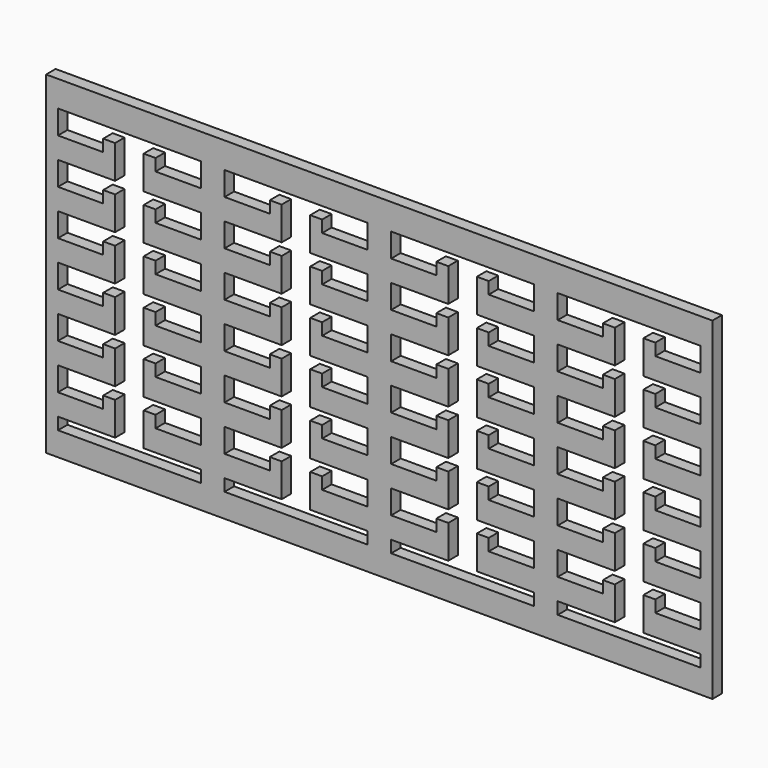
from build123d import *

# Parameters (mm, degrees)
F0_W     = 355.6
F0_H     = 177.8
F1_DEPTH = 6.35


with BuildPart() as f1:
    # F0 (on Front) → F1 (new body)
    with BuildSketch(Plane.XZ):
        with Locations((-193.209771, -3.846272)):
            Rectangle(F0_W, F0_H)
        Polygon((-364.659771, -62.202772), (-364.659771, -49.502772), (-334.179771, -49.502772), (-334.179771, -31.722772), (-340.529771, -31.722772), (-340.529771, -38.072772), (-364.659771, -38.072772), (-364.659771, -25.372772), (-334.179771, -25.372772), (-334.179771, -7.592772), (-340.529771, -7.592772), (-340.529771, -13.942772), (-364.659771, -13.942772), (-364.659771, -1.242772), (-334.179771, -1.242772), (-334.179771, 16.537228), (-340.529771, 16.537228), (-340.529771, 10.187228), (-364.659771, 10.187228), (-364.659771, 22.887228), (-334.179771, 22.887228), (-334.179771, 40.667228), (-340.529771, 40.667228), (-340.529771, 34.317228), (-364.659771, 34.317228), (-364.659771, 47.017228), (-334.179771, 47.017228), (-334.179771, 64.797228), (-340.529771, 64.797228), (-340.529771, 58.447228), (-364.659771, 58.447228), (-364.659771, 71.147228), (-288.459771, 71.147228), (-288.459771, 58.447228), (-312.589771, 58.447228), (-312.589771, 64.797228), (-318.939771, 64.797228), (-318.939771, 47.017228), (-288.459771, 47.017228), (-288.459771, 34.317228), (-312.589771, 34.317228), (-312.589771, 40.667228), (-318.939771, 40.667228), (-318.939771, 22.887228), (-288.459771, 22.887228), (-288.459771, 10.187228), (-312.589771, 10.187228), (-312.589771, 16.537228), (-318.939771, 16.537228), (-318.939771, -1.242772), (-288.459771, -1.242772), (-288.459771, -13.942772), (-312.589771, -13.942772), (-312.589771, -7.592772), (-318.939771, -7.592772), (-318.939771, -25.372772), (-288.459771, -25.372772), (-288.459771, -38.072772), (-312.589771, -38.072772), (-312.589771, -31.722772), (-318.939771, -31.722772), (-318.939771, -49.502772), (-288.459771, -49.502772), (-288.459771, -62.202772), (-312.589771, -62.202772), (-312.589771, -55.852772), (-318.939771, -55.852772), (-318.939771, -73.632772), (-288.459771, -73.632772), (-288.459771, -80.046272), (-364.659771, -80.046272), (-364.659771, -73.632772), (-334.179771, -73.632772), (-334.179771, -55.852772), (-340.529771, -55.852772), (-340.529771, -62.202772), align=None, mode=Mode.SUBTRACT)
        Polygon((-275.759771, 71.147228), (-199.559771, 71.147228), (-199.559771, 58.447228), (-223.689771, 58.447228), (-223.689771, 64.797228), (-230.039771, 64.797228), (-230.039771, 47.017228), (-199.559771, 47.017228), (-199.559771, 34.317228), (-223.689771, 34.317228), (-223.689771, 40.667228), (-230.039771, 40.667228), (-230.039771, 22.887228), (-199.559771, 22.887228), (-199.559771, 10.187228), (-223.689771, 10.187228), (-223.689771, 16.537228), (-230.039771, 16.537228), (-230.039771, -1.242772), (-199.559771, -1.242772), (-199.559771, -13.942772), (-223.689771, -13.942772), (-223.689771, -7.592772), (-230.039771, -7.592772), (-230.039771, -25.372772), (-199.559771, -25.372772), (-199.559771, -38.072772), (-223.689771, -38.072772), (-223.689771, -31.722772), (-230.039771, -31.722772), (-230.039771, -49.502772), (-199.559771, -49.502772), (-199.559771, -62.202772), (-223.689771, -62.202772), (-223.689771, -55.852772), (-230.039771, -55.852772), (-230.039771, -73.632772), (-199.559771, -73.632772), (-199.559771, -80.046272), (-275.759771, -80.046272), (-275.759771, -73.632772), (-245.279771, -73.632772), (-245.279771, -55.852772), (-251.629771, -55.852772), (-251.629771, -62.202772), (-275.759771, -62.202772), (-275.759771, -49.502772), (-245.279771, -49.502772), (-245.279771, -31.722772), (-251.629771, -31.722772), (-251.629771, -38.072772), (-275.759771, -38.072772), (-275.759771, -25.372772), (-245.279771, -25.372772), (-245.279771, -7.592772), (-251.629771, -7.592772), (-251.629771, -13.942772), (-275.759771, -13.942772), (-275.759771, -1.242772), (-245.279771, -1.242772), (-245.279771, 16.537228), (-251.629771, 16.537228), (-251.629771, 10.187228), (-275.759771, 10.187228), (-275.759771, 22.887228), (-245.279771, 22.887228), (-245.279771, 40.667228), (-251.629771, 40.667228), (-251.629771, 34.317228), (-275.759771, 34.317228), (-275.759771, 47.017228), (-245.279771, 47.017228), (-245.279771, 64.797228), (-251.629771, 64.797228), (-251.629771, 58.447228), (-275.759771, 58.447228), align=None, mode=Mode.SUBTRACT)
        Polygon((-186.859771, -62.202772), (-186.859771, -49.502772), (-156.379771, -49.502772), (-156.379771, -31.722772), (-162.729771, -31.722772), (-162.729771, -38.072772), (-186.859771, -38.072772), (-186.859771, -25.372772), (-156.379771, -25.372772), (-156.379771, -7.592772), (-162.729771, -7.592772), (-162.729771, -13.942772), (-186.859771, -13.942772), (-186.859771, -1.242772), (-156.379771, -1.242772), (-156.379771, 16.537228), (-162.729771, 16.537228), (-162.729771, 10.187228), (-186.859771, 10.187228), (-186.859771, 22.887228), (-156.379771, 22.887228), (-156.379771, 40.667228), (-162.729771, 40.667228), (-162.729771, 34.317228), (-186.859771, 34.317228), (-186.859771, 47.017228), (-156.379771, 47.017228), (-156.379771, 64.797228), (-162.729771, 64.797228), (-162.729771, 58.447228), (-186.859771, 58.447228), (-186.859771, 71.147228), (-110.659771, 71.147228), (-110.659771, 58.447228), (-134.789771, 58.447228), (-134.789771, 64.797228), (-141.139771, 64.797228), (-141.139771, 47.017228), (-110.659771, 47.017228), (-110.659771, 34.317228), (-134.789771, 34.317228), (-134.789771, 40.667228), (-141.139771, 40.667228), (-141.139771, 22.887228), (-110.659771, 22.887228), (-110.659771, 10.187228), (-134.789771, 10.187228), (-134.789771, 16.537228), (-141.139771, 16.537228), (-141.139771, -1.242772), (-110.659771, -1.242772), (-110.659771, -13.942772), (-134.789771, -13.942772), (-134.789771, -7.592772), (-141.139771, -7.592772), (-141.139771, -25.372772), (-110.659771, -25.372772), (-110.659771, -38.072772), (-134.789771, -38.072772), (-134.789771, -31.722772), (-141.139771, -31.722772), (-141.139771, -49.502772), (-110.659771, -49.502772), (-110.659771, -62.202772), (-134.789771, -62.202772), (-134.789771, -55.852772), (-141.139771, -55.852772), (-141.139771, -73.632772), (-110.659771, -73.632772), (-110.659771, -80.046272), (-186.859771, -80.046272), (-186.859771, -73.632772), (-156.379771, -73.632772), (-156.379771, -55.852772), (-162.729771, -55.852772), (-162.729771, -62.202772), align=None, mode=Mode.SUBTRACT)
        Polygon((-97.959771, -62.202772), (-97.959771, -49.502772), (-67.479771, -49.502772), (-67.479771, -31.722772), (-73.829771, -31.722772), (-73.829771, -38.072772), (-97.959771, -38.072772), (-97.959771, -25.372772), (-67.479771, -25.372772), (-67.479771, -7.592772), (-73.829771, -7.592772), (-73.829771, -13.942772), (-97.959771, -13.942772), (-97.959771, -1.242772), (-67.479771, -1.242772), (-67.479771, 16.537228), (-73.829771, 16.537228), (-73.829771, 10.187228), (-97.959771, 10.187228), (-97.959771, 22.887228), (-67.479771, 22.887228), (-67.479771, 40.667228), (-73.829771, 40.667228), (-73.829771, 34.317228), (-97.959771, 34.317228), (-97.959771, 47.017228), (-67.479771, 47.017228), (-67.479771, 64.797228), (-73.829771, 64.797228), (-73.829771, 58.447228), (-97.959771, 58.447228), (-97.959771, 71.147228), (-21.759771, 71.147228), (-21.759771, 58.447228), (-45.889771, 58.447228), (-45.889771, 64.797228), (-52.239771, 64.797228), (-52.239771, 47.017228), (-21.759771, 47.017228), (-21.759771, 34.317228), (-45.889771, 34.317228), (-45.889771, 40.667228), (-52.239771, 40.667228), (-52.239771, 22.887228), (-21.759771, 22.887228), (-21.759771, 10.187228), (-45.889771, 10.187228), (-45.889771, 16.537228), (-52.239771, 16.537228), (-52.239771, -1.242772), (-21.759771, -1.242772), (-21.759771, -13.942772), (-45.889771, -13.942772), (-45.889771, -7.592772), (-52.239771, -7.592772), (-52.239771, -25.372772), (-21.759771, -25.372772), (-21.759771, -38.072772), (-45.889771, -38.072772), (-45.889771, -31.722772), (-52.239771, -31.722772), (-52.239771, -49.502772), (-21.759771, -49.502772), (-21.759771, -62.202772), (-45.889771, -62.202772), (-45.889771, -55.852772), (-52.239771, -55.852772), (-52.239771, -73.632772), (-21.759771, -73.632772), (-21.759771, -80.046272), (-97.959771, -80.046272), (-97.959771, -73.632772), (-67.479771, -73.632772), (-67.479771, -55.852772), (-73.829771, -55.852772), (-73.829771, -62.202772), align=None, mode=Mode.SUBTRACT)
    extrude(amount=F1_DEPTH)


solid = f1.part
